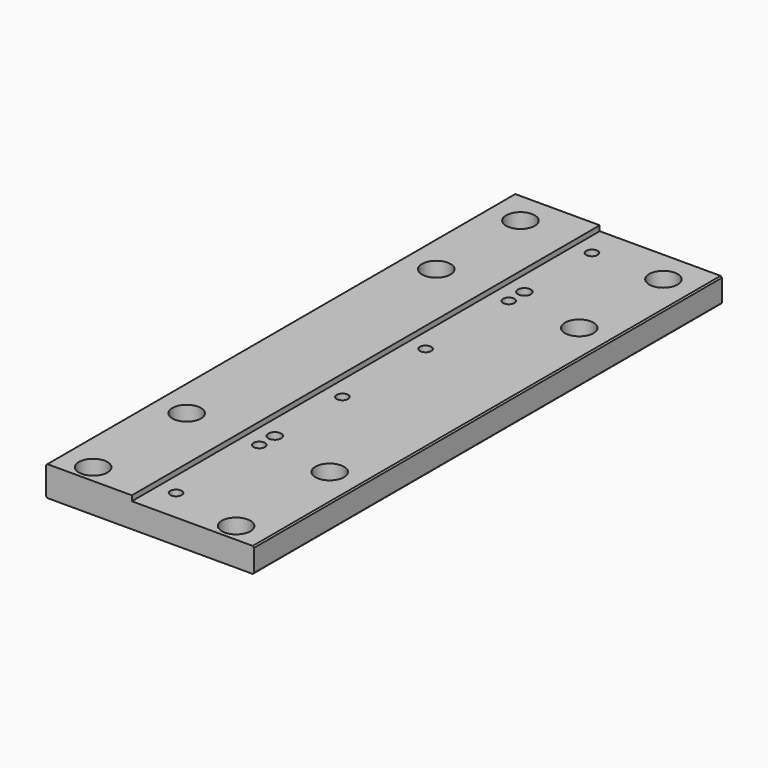
from build123d import *

# Parameters (mm, degrees)
F1_DEPTH       = 450
F3_D           = 13
F3_DEPTH       = 25
F3_CBORE_D     = 22
F3_CBORE_DEPTH = 13
F3_TIP         = 3.9055940237
F5_D           = 13
F5_DEPTH       = 25
F5_CBORE_D     = 22
F5_CBORE_DEPTH = 13
F5_TIP         = 3.9055940237
F7_D           = 8.8
F7_DEPTH       = 25
F7_TIP         = 2.6437867237
F8_D           = 10
F8_DEPTH       = 12
F8_TIP         = 3.0043030951
F9_SIZE2       = 1
F9_SIZE        = 1


with BuildPart() as f1:
    # F0 (on Front) → F1 (new body)
    with BuildSketch(Plane.XZ):
        Polygon((94, 0), (0, 0), (0, 4), (-66, 4), (-66, -19), (94, -19), align=None)
    extrude(amount=-F1_DEPTH)

    # F3
    with Locations(Plane.XY.offset(4)):
        with Locations((-41, 425), (-41, 344), (-41, 104), (-41, 14)):
            CounterBoreHole(F3_D / 2, F3_CBORE_D / 2, F3_CBORE_DEPTH, depth=F3_DEPTH)
            with Locations((0, 0, -(F3_DEPTH + F3_TIP / 2))):  # 118° drill point
                Cone(0, F3_D / 2, F3_TIP, mode=Mode.SUBTRACT)

    # F5
    with Locations(Plane.XY):
        with Locations((69, 425), (69, 344), (69, 104), (69, 14)):
            CounterBoreHole(F5_D / 2, F5_CBORE_D / 2, F5_CBORE_DEPTH, depth=F5_DEPTH)
            with Locations((0, 0, -(F5_DEPTH + F5_TIP / 2))):  # 118° drill point
                Cone(0, F5_D / 2, F5_TIP, mode=Mode.SUBTRACT)

    # F7
    with Locations(Plane.XY):
        with Locations((14, 25), (14, 105), (14, 185), (14, 265), (14, 345), (14, 425)):
            Hole(F7_D / 2, depth=F7_DEPTH)
            with Locations((0, 0, -(F7_DEPTH + F7_TIP / 2))):  # 118° drill point
                Cone(0, F7_D / 2, F7_TIP, mode=Mode.SUBTRACT)

    # F8
    with Locations(Plane.XY):
        with Locations((14, 120), (14, 360)):
            Hole(F8_D / 2, depth=F8_DEPTH)
            with Locations((0, 0, -(F8_DEPTH + F8_TIP / 2))):  # 118° drill point
                Cone(0, F8_D / 2, F8_TIP, mode=Mode.SUBTRACT)

    # F9
    f9_edges = [f1.edges().sort_by_distance(p)[0] for p in [
        (94, 225, 0),
        (-66, 225, 4),
        (94, 225, -19),
        (-66, 225, -19),
    ]]
    chamfer(f9_edges, length=F9_SIZE, length2=F9_SIZE2)


solid = f1.part
